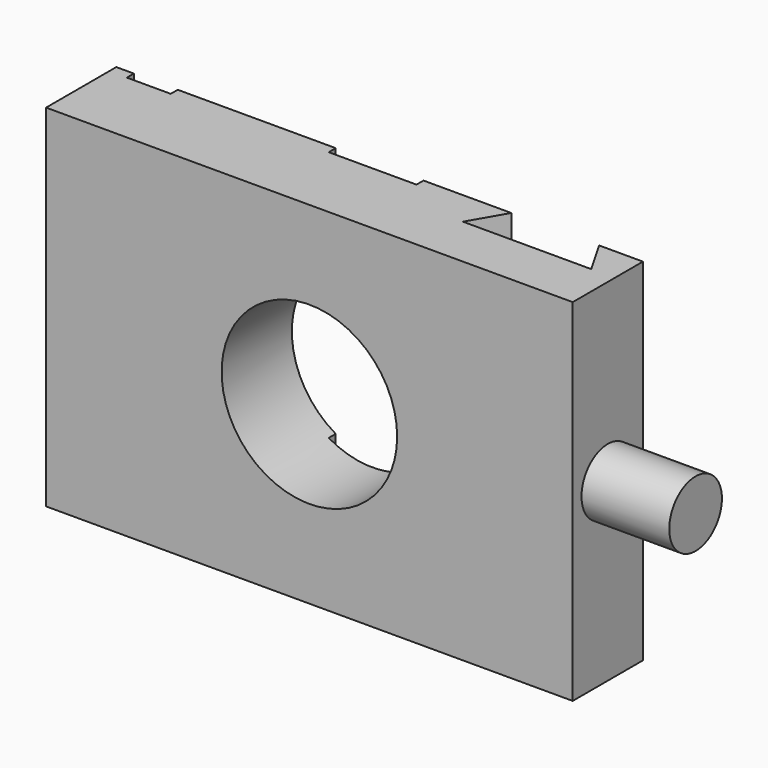
from build123d import *

# Parameters (mm, degrees)
F0_W     = 76.2
F0_H     = 50.8
F0_R     = 12.7
F1_DEPTH = 12.7
F2_W     = 6.35
F2_H     = 50.8
F3_DEPTH = 1.27
F5_DEPTH = 50.801
F6_R     = 4.7625
F7_DEPTH = 12.7


with BuildPart() as f1:
    # F0 (on Front) → F1 (new body)
    with BuildSketch(Plane.XZ):
        Rectangle(F0_W, F0_H)
        Circle(F0_R, mode=Mode.SUBTRACT)
    extrude(amount=-F1_DEPTH)

    # F2 (on face) → F3 (cut)
    with BuildSketch(Plane(origin=(0, 12.7, 0), x_dir=(-1, 0, 0), z_dir=(0, 1, 0))):
        with Locations((32.385, 0)):
            Rectangle(F2_W, F2_H)
        with BuildLine():
            Line((6.35, 10.9985226281), (6.35, 25.4))
            Line((6.35, 25.4), (-6.35, 25.4))
            Line((-6.35, 25.4), (-6.35, 10.9985226281))
            ThreePointArc((-6.35, 10.9985226281), (0, 12.7), (6.35, 10.9985226281))
        make_face()
        with BuildLine():
            Line((-6.35, -25.4), (6.35, -25.4))
            Line((6.35, -25.4), (6.35, -10.9985226281))
            ThreePointArc((6.35, -10.9985226281), (0, -12.7), (-6.35, -10.9985226281))
            Line((-6.35, -10.9985226281), (-6.35, -25.4))
        make_face()
    extrude(amount=-F3_DEPTH, mode=Mode.SUBTRACT)

    # F4 (on face) → F5 (cut, through all)
    with BuildSketch(Plane.XY.offset(25.4)):
        Polygon((31.75, 12.7), (19.05, 12.7), (16.1170606325, 7.62), (34.6829393675, 7.62), align=None)
    extrude(amount=-F5_DEPTH, mode=Mode.SUBTRACT)

    # F6 (on face) → F7 (join)
    with BuildSketch(Plane.YZ.offset(38.1)):
        with Locations((6.35, 0)):
            Circle(F6_R)
    extrude(amount=F7_DEPTH)


solid = f1.part
